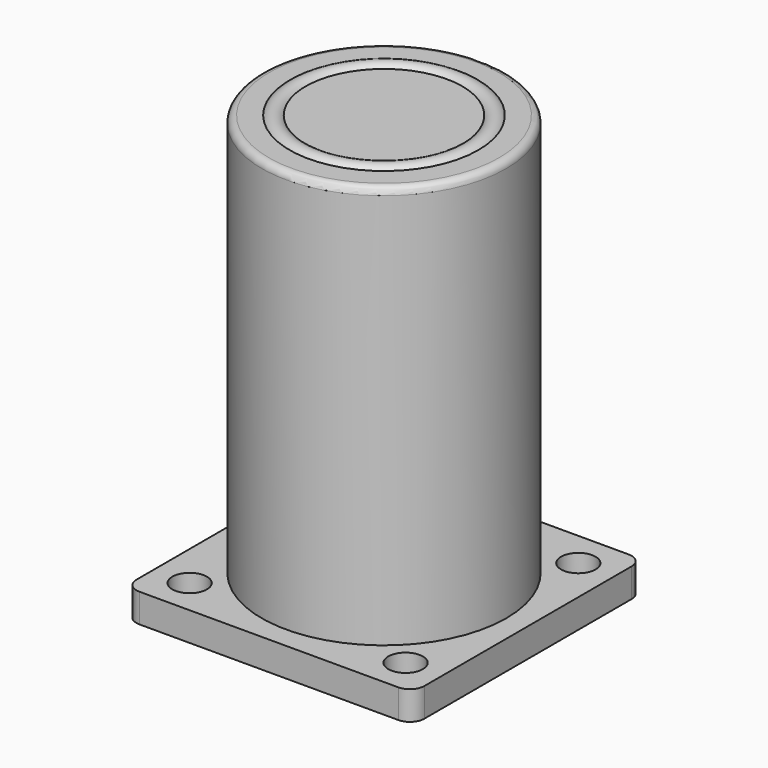
from build123d import *

# Parameters (mm, degrees)
CYLINDER004_R     = 17
CYLINDER004_DEPTH = 60
FILLET001_R       = 1
TORUS_R           = 1.5
CYLINDER_R        = 2.4
CYLINDER_DEPTH    = 10
CYLINDER001_R     = 2.4
CYLINDER001_DEPTH = 10
CYLINDER002_R     = 2.4
CYLINDER002_DEPTH = 10
CYLINDER003_R     = 2.4
CYLINDER003_DEPTH = 10
BOX_W             = 40
BOX_H             = 40
BOX_DEPTH         = 4
FILLET_R          = 2
FILLET002_R       = 1


with BuildPart() as cylinder004:
    # Cylinder004 → Cylinder004 (new body)
    with BuildSketch(Plane(origin=(20, 20, 0), x_dir=(1, 0, 0), z_dir=(0, 0, 1))):
        Circle(CYLINDER004_R)
    extrude(amount=CYLINDER004_DEPTH)


with BuildPart() as fillet001:
    # Fillet001 base: copy of Cylinder004
    add(cylinder004.part)

    # Fillet001
    fillet001_edges = [fillet001.edges().sort_by_distance(p)[0] for p in [
        (3, 20, 60),
    ]]
    fillet(fillet001_edges, radius=FILLET001_R)


with BuildPart() as cut001:
    # Torus → Torus (revolve)
    with BuildSketch(Plane(origin=(20, 20, 59), x_dir=(1, 0, 0), z_dir=(0, -1, 0))):
        with Locations((12, 0)):
            Circle(TORUS_R)
    revolve(axis=Axis((20, 20, 59), (0, 0, 1)))

    # Cut001: cut Fillet001
    add(fillet001.part, mode=Mode.SUBTRACT)


with BuildPart() as cylinder:
    # Cylinder → Cylinder (new body)
    with BuildSketch(Plane(origin=(5, 5, 0), x_dir=(1, 0, 0), z_dir=(0, 0, 1))):
        Circle(CYLINDER_R)
    extrude(amount=CYLINDER_DEPTH)


with BuildPart() as fusion:
    # Cylinder001 → Cylinder001 (new body)
    with BuildSketch(Plane(origin=(5, 35, 0), x_dir=(1, 0, 0), z_dir=(0, 0, 1))):
        Circle(CYLINDER001_R)
    extrude(amount=CYLINDER001_DEPTH)

    # Fusion: union Cylinder
    add(cylinder.part)


with BuildPart() as cylinder002:
    # Cylinder002 → Cylinder002 (new body)
    with BuildSketch(Plane(origin=(5, 5, 0), x_dir=(1, 0, 0), z_dir=(0, 0, 1))):
        Circle(CYLINDER002_R)
    extrude(amount=CYLINDER002_DEPTH)


with BuildPart() as fusion002:
    # Cylinder003 → Cylinder003 (new body)
    with BuildSketch(Plane(origin=(5, 35, 0), x_dir=(1, 0, 0), z_dir=(0, 0, 1))):
        Circle(CYLINDER003_R)
    extrude(amount=CYLINDER003_DEPTH)

    # Fusion001: union Cylinder002
    add(cylinder002.part)


with BuildPart() as fusion002_1:
    # Fusion001 placement: moved
    add(fusion002.part.moved(Location((30, 0, 0))))

    # Fusion002: union Fusion
    add(fusion.part)


with BuildPart() as cut:
    # Box → Box (new body)
    with BuildSketch(Plane.XY):
        with Locations((20, 20)):
            Rectangle(BOX_W, BOX_H)
    extrude(amount=BOX_DEPTH)

    # Fillet
    fillet_edges = [cut.edges().sort_by_distance(p)[0] for p in [
        (0, 0, 2),
        (0, 40, 2),
        (40, 0, 2),
        (40, 40, 2),
    ]]
    fillet(fillet_edges, radius=FILLET_R)

    # Cut: cut Fusion002
    add(fusion002_1.part, mode=Mode.SUBTRACT)


with BuildPart() as fusion003:
    # Fillet002 base: copy of Cylinder004
    add(cylinder004.part)

    # Fillet002
    fillet002_edges = [fusion003.edges().sort_by_distance(p)[0] for p in [
        (3, 20, 60),
    ]]
    fillet(fillet002_edges, radius=FILLET002_R)

    # Fusion003: union Cut001, Cut
    add(cut001.part)
    add(cut.part)


solid = fusion003.part
